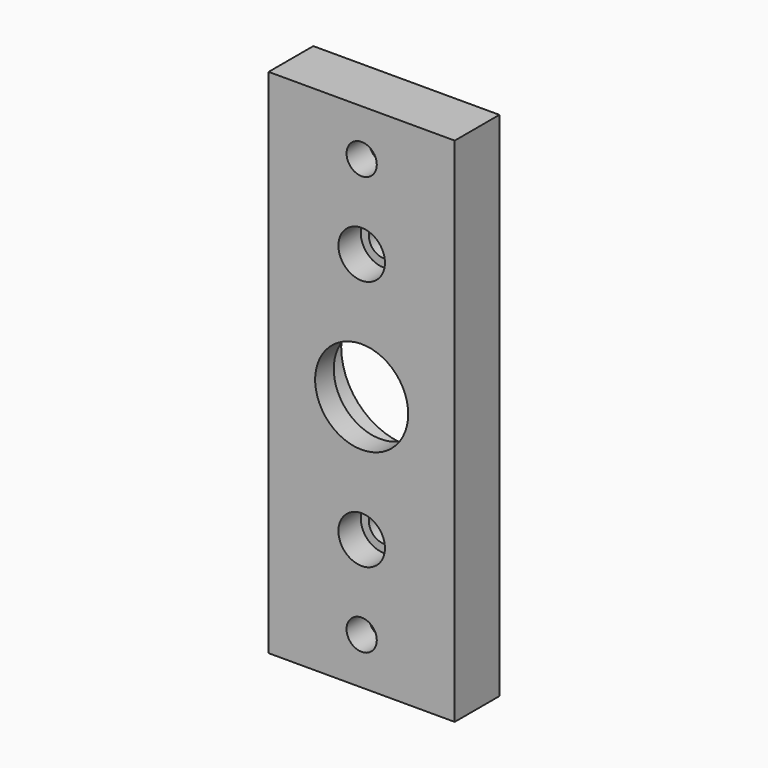
from build123d import *

# Parameters (mm, degrees)
F0_W     = 40
F0_H     = 110
F0_R     = 3.25
F0_R_2   = 10
F1_DEPTH = 12
F2_R     = 5
F3_DEPTH = 6
F4_R     = 5
F5_DEPTH = 6
F6_R     = 14
F6_R_2   = 10
F7_DEPTH = 7


with BuildPart() as f1:
    # F0 (on Front) → F1 (new body)
    with BuildSketch(Plane.XZ):
        with Locations((20, 55)):
            Rectangle(F0_W, F0_H)
        with Locations((20, 10)):
            Circle(F0_R, mode=Mode.SUBTRACT)
        with Locations((20, 28)):
            Circle(F0_R, mode=Mode.SUBTRACT)
        with Locations((20, 55)):
            Circle(F0_R_2, mode=Mode.SUBTRACT)
        with Locations((20, 82)):
            Circle(F0_R, mode=Mode.SUBTRACT)
        with Locations((20, 100)):
            Circle(F0_R, mode=Mode.SUBTRACT)
    extrude(amount=F1_DEPTH)

    # F2 (on face) → F3 (cut)
    with BuildSketch(Plane.XZ.offset(12)):
        with Locations((20, 82)):
            Circle(F2_R)
        with Locations((20, 28)):
            Circle(F2_R)
    extrude(amount=-F3_DEPTH, mode=Mode.SUBTRACT)

    # F4 (on face) → F5 (cut)
    with BuildSketch(Plane(origin=(0, 0, 0), x_dir=(-1, 0, 0), z_dir=(0, 1, 0))):
        with Locations((-20, 100)):
            Circle(F4_R)
        with Locations((-20, 10)):
            Circle(F4_R)
    extrude(amount=-F5_DEPTH, mode=Mode.SUBTRACT)

    # F6 (on face) → F7 (cut)
    with BuildSketch(Plane(origin=(0, 0, 0), x_dir=(-1, 0, 0), z_dir=(0, 1, 0))):
        with Locations((-20, 55)):
            Circle(F6_R)
        with Locations((-20, 55)):
            Circle(F6_R_2, mode=Mode.SUBTRACT)
    extrude(amount=-F7_DEPTH, mode=Mode.SUBTRACT)


solid = f1.part
